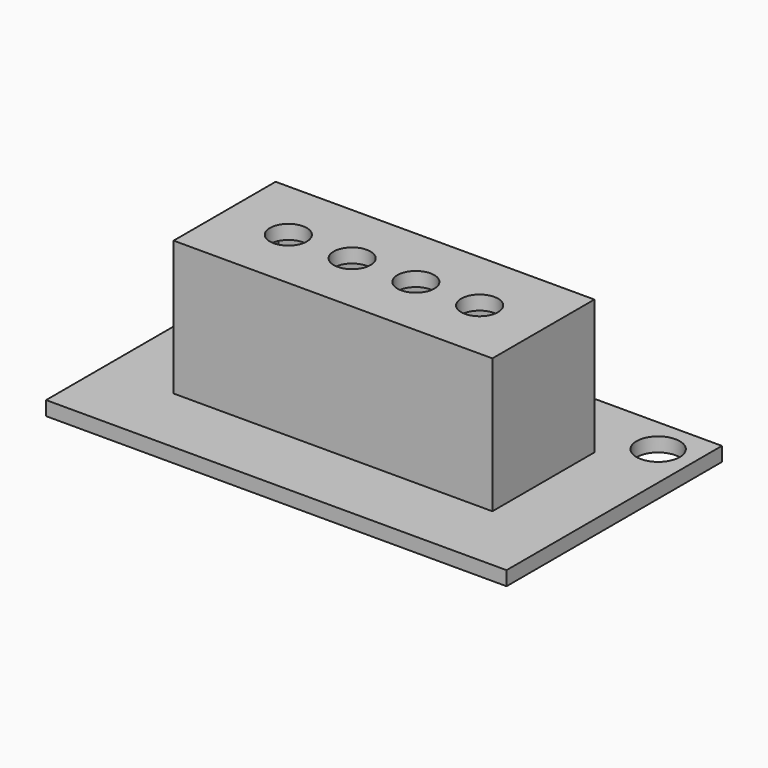
from build123d import *

# Parameters (mm, degrees)
F1_DEPTH = 21
F2_START = 19
F2_DEPTH = 2
F0_R     = 3.05
F3_DEPTH = 2


with BuildPart() as f1:
    # F0 (on Top) → F1 (new body)
    with BuildSketch(Plane.XY):
        Polygon((22.5, -9), (22.5, 0), (20.5, 0), (20.5, -7), (-20.5, -7), (-20.5, 0), (-22.5, 0), (-22.5, -9), align=None)
        Polygon((22.5, 0), (22.5, 9), (-22.5, 9), (-22.5, 0), (-20.5, 0), (-20.5, 7), (20.5, 7), (20.5, 0), align=None)
    extrude(amount=F1_DEPTH)

    # F0 (on Top) → F2 (join)
    with BuildSketch(Plane.XY.offset(F2_START)):
        with BuildLine():
            Line((16.1, 0), (20.5, 0))
            Line((20.5, 0), (20.5, 7))
            Line((20.5, 7), (-20.5, 7))
            Line((-20.5, 7), (-20.5, 0))
            Line((-20.5, 0), (-16.1, 0))
            ThreePointArc((-16.1, 0), (-13.5, 2.6), (-10.9, 0))
            Line((-10.9, 0), (-7.1, 0))
            ThreePointArc((-7.1, 0), (-4.5, 2.6), (-1.9, 0))
            Line((-1.9, 0), (1.9, 0))
            ThreePointArc((1.9, 0), (4.5, 2.6), (7.1, 0))
            Line((7.1, 0), (10.9, 0))
            ThreePointArc((10.9, 0), (13.5, 2.6), (16.1, 0))
        make_face()
        with BuildLine():
            Line((20.5, -7), (20.5, 0))
            Line((20.5, 0), (16.1, 0))
            ThreePointArc((16.1, 0), (13.5, -2.6), (10.9, 0))
            Line((10.9, 0), (7.1, 0))
            ThreePointArc((7.1, 0), (4.5, -2.6), (1.9, 0))
            Line((1.9, 0), (-1.9, 0))
            ThreePointArc((-1.9, 0), (-4.5, -2.6), (-7.1, 0))
            Line((-7.1, 0), (-10.9, 0))
            ThreePointArc((-10.9, 0), (-13.5, -2.6), (-16.1, 0))
            Line((-16.1, 0), (-20.5, 0))
            Line((-20.5, 0), (-20.5, -7))
            Line((-20.5, -7), (20.5, -7))
        make_face()
    extrude(amount=F2_DEPTH)

    # F0 (on Top) → F3 (join)
    with BuildSketch(Plane.XY):
        Polygon((-32.5, 19), (-32.5, 14), (-32.5, -19), (32.5, -19), (32.5, 19), align=None)
        with BuildLine():
            ThreePointArc((-24.45, 14), (-25.3433243174, 11.8433243174), (-27.5, 10.95))
            ThreePointArc((-27.5, 10.95), (-29.6566756826, 11.8433243174), (-30.55, 14))
            ThreePointArc((-30.55, 14), (-27.5, 17.05), (-24.45, 14))
        make_face(mode=Mode.SUBTRACT)
        Polygon((-22.5, 9), (22.5, 9), (22.5, 0), (22.5, -9), (-22.5, -9), (-22.5, 0), align=None, mode=Mode.SUBTRACT)
        with Locations((27.5, 14)):
            Circle(F0_R, mode=Mode.SUBTRACT)
    extrude(amount=F3_DEPTH)


solid = f1.part
